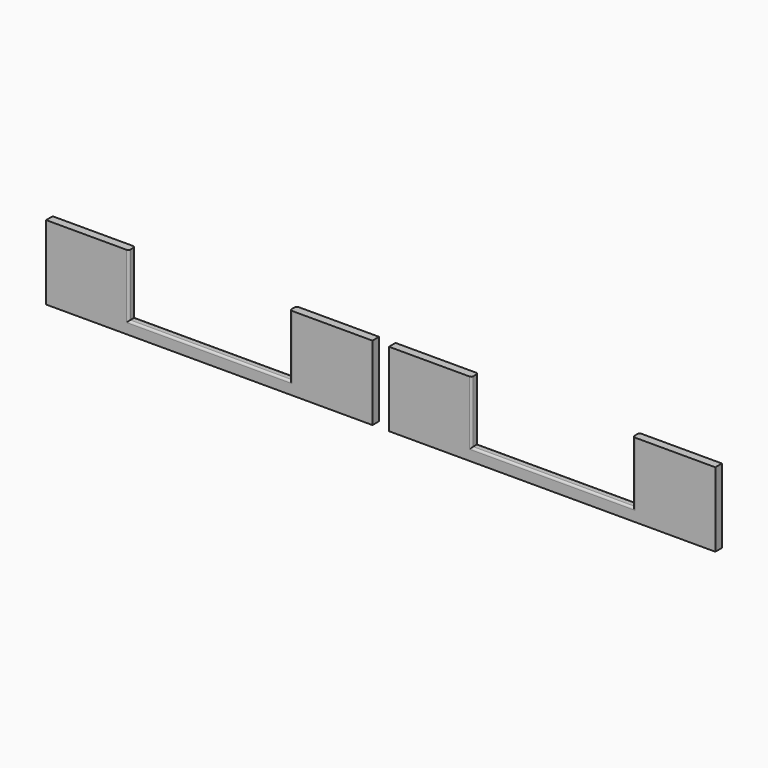
from build123d import *

# Parameters (mm, degrees)
EXTRUDE_DEPTH = 2
FILLET001_R   = 0.5


with BuildPart() as front_side:
    # Sketch002 → Extrude (new body)
    with BuildSketch(Plane.XZ):
        Polygon((0, 2), (0, 20), (20, 20), (20, 5), (59, 5), (59, 20), (79, 20), (79, 2), align=None)
        Polygon((162, 2), (162, 20), (142, 20), (142, 5), (103, 5), (103, 20), (83, 20), (83, 2), align=None)
    extrude(amount=-EXTRUDE_DEPTH)


with BuildPart() as middle_row:
    # Part__Mirroring001: instance of front side
    add(front_side.part.mirror(Plane(origin=(0, 0, 0), x_dir=(1, 0, 0), z_dir=(0, 1, 0))))


with BuildPart() as middle_row_1:
    # Part__Mirroring001 placement: moved
    add(middle_row.part.moved(Location((0, 23, 0))))

    # Fillet001
    fillet001_edges = [middle_row_1.edges().sort_by_distance(p)[0] for p in [
        (142, 23, 12.5),
        (142, 21, 12.5),
        (122.5, 23, 5),
        (122.5, 21, 5),
        (103, 23, 12.5),
        (103, 21, 12.5),
        (20, 23, 12.5),
        (20, 21, 12.5),
        (39.5, 23, 5),
        (39.5, 21, 5),
        (59, 23, 12.5),
        (59, 21, 12.5),
    ]]
    fillet(fillet001_edges, radius=FILLET001_R)


solid = middle_row_1.part
